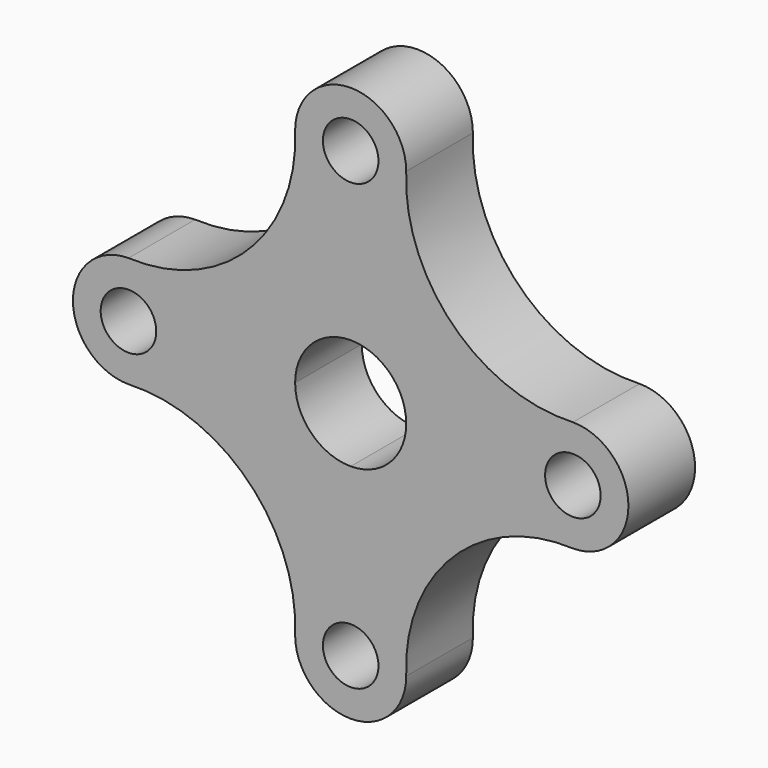
from build123d import *

# Parameters (mm, degrees)
F0_R     = 6.35
F1_DEPTH = 19.05


with BuildPart() as f1:
    # F0 (on Front) → F1 (new body)
    with BuildSketch(Plane.XZ):
        with BuildLine():
            ThreePointArc((6.35, -50.8), (4.490128, -46.309872), (0, -44.45))
            ThreePointArc((0, -44.45), (-4.490128, -55.290128), (6.35, -50.8))
        make_face()
        with BuildLine():
            ThreePointArc((-12.7, 50.8), (-23.358147, 23.358147), (-50.8, 12.7))
            ThreePointArc((-50.8, 12.7), (-63.5, 0), (-50.8, -12.7))
            ThreePointArc((-50.8, -12.7), (-23.358147, -23.358147), (-12.7, -50.8))
            ThreePointArc((-12.7, -50.8), (0, -63.5), (12.7, -50.8))
            ThreePointArc((12.7, -50.8), (23.358147, -23.358147), (50.8, -12.7))
            ThreePointArc((50.8, -12.7), (63.5, 0), (50.8, 12.7))
            ThreePointArc((50.8, 12.7), (23.358147, 23.358147), (12.7, 50.8))
            ThreePointArc((12.7, 50.8), (0, 63.5), (-12.7, 50.8))
        make_face()
        with BuildLine():
            ThreePointArc((6.35, -50.8), (-4.490128, -55.290128), (0, -44.45))
            ThreePointArc((0, -44.45), (4.490128, -46.309872), (6.35, -50.8))
        make_face(mode=Mode.SUBTRACT)
        with Locations((-50.8, 0)):
            Circle(F0_R, mode=Mode.SUBTRACT)
        with BuildLine():
            ThreePointArc((12.7, 0), (8.980256, -8.980256), (0, -12.7))
            ThreePointArc((0, -12.7), (-8.980256, -8.980256), (-12.7, 0))
            ThreePointArc((-12.7, 0), (0, 12.7), (12.7, 0))
        make_face(mode=Mode.SUBTRACT)
        with Locations((50.8, 0)):
            Circle(F0_R, mode=Mode.SUBTRACT)
        with Locations((0, 50.8)):
            Circle(F0_R, mode=Mode.SUBTRACT)
    extrude(amount=F1_DEPTH)


solid = f1.part
